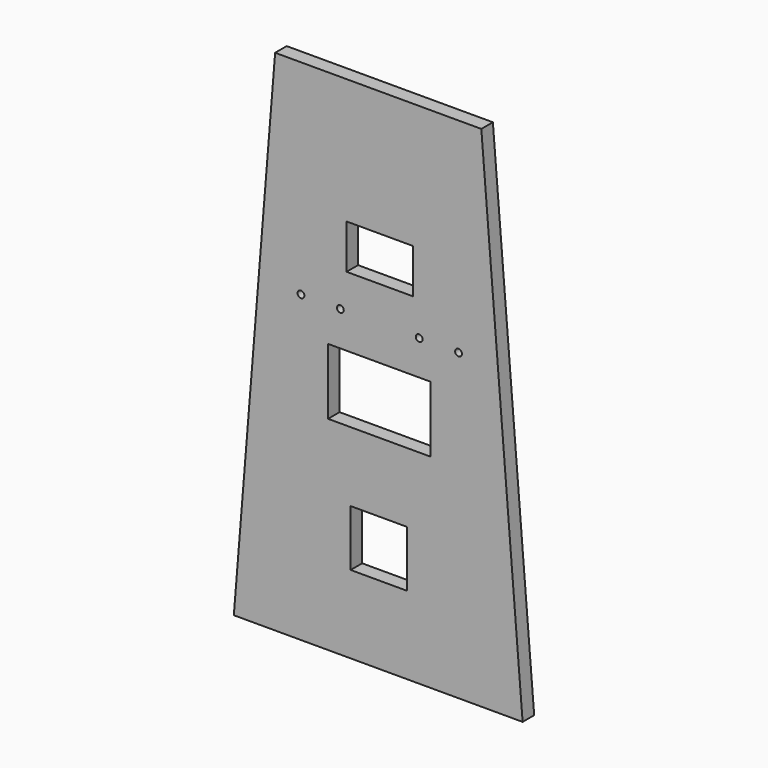
from build123d import *

# Parameters (mm, degrees)
F0_W     = 98.962423
F0_H     = 98.962423
F0_W_2   = 180.34
F0_H_2   = 116.078
F0_R     = 5.969
F0_W_3   = 116.84
F0_H_3   = 77.978
F1_DEPTH = 25.4


with BuildPart() as f1:
    # F0 (on Front) → F1 (new body)
    with BuildSketch(Plane.XZ):
        Polygon((139.804028, 468.800936), (-222.919366, 468.800936), (-295.570681, -425.930375), (212.455342, -425.930375), align=None)
        with Locations((-40.599602, -239.511003)):
            Rectangle(F0_W, F0_H, mode=Mode.SUBTRACT)
        with Locations((-39.655412, -9.803456)):
            Rectangle(F0_W_2, F0_H_2, mode=Mode.SUBTRACT)
        with Locations((-177.457626, 109.329212)):
            Circle(F0_R, mode=Mode.SUBTRACT)
        with Locations((-108.159914, 109.329212)):
            Circle(F0_R, mode=Mode.SUBTRACT)
        with Locations((30.435509, 109.329212)):
            Circle(F0_R, mode=Mode.SUBTRACT)
        with Locations((-38.862203, 209.41188)):
            Rectangle(F0_W_3, F0_H_3, mode=Mode.SUBTRACT)
        with Locations((99.733221, 109.329212)):
            Circle(F0_R, mode=Mode.SUBTRACT)
    extrude(amount=F1_DEPTH)


solid = f1.part
